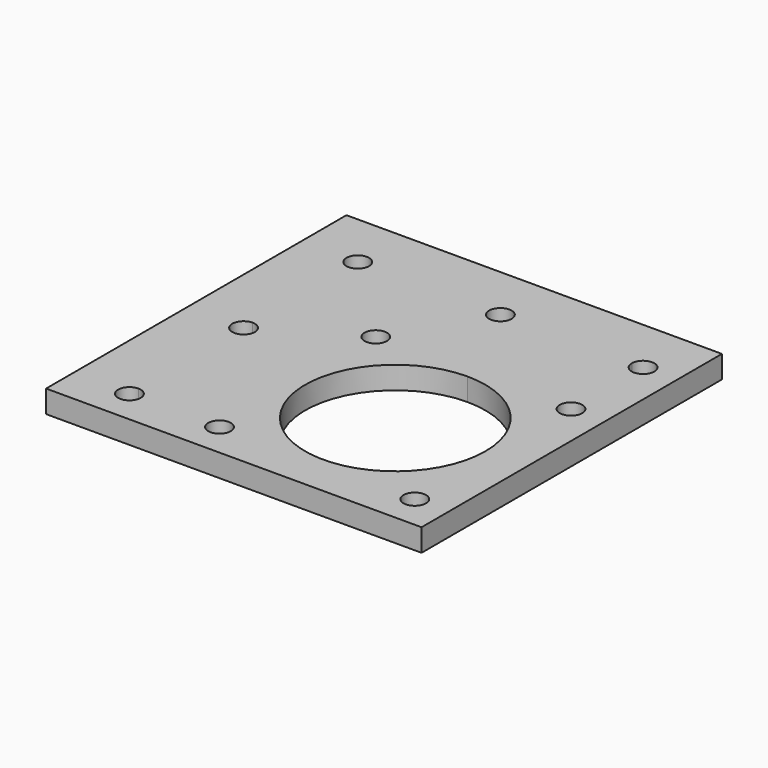
from build123d import *

# Parameters (mm, degrees)
F0_W     = 35
F0_H     = 35
F0_R     = 1.5
F1_DEPTH = 3
F3_DEPTH = 3
F5_DEPTH = 25


with BuildPart() as f1:
    # F0 (on Top) → F1 (new body)
    with BuildSketch(Plane.XY):
        Rectangle(F0_W, F0_H)
        with Locations((-13, -13)):
            Circle(F0_R, mode=Mode.SUBTRACT)
        with Locations((13, -13)):
            Circle(F0_R, mode=Mode.SUBTRACT)
        with Locations((-13, 13)):
            Circle(F0_R, mode=Mode.SUBTRACT)
        with BuildLine():
            ThreePointArc((0, 12), (8.485281, 8.485281), (12, 0))
            ThreePointArc((12, 0), (-8.485281, -8.485281), (0, 12))
        make_face(mode=Mode.SUBTRACT)
        with Locations((13, 13)):
            Circle(F0_R, mode=Mode.SUBTRACT)
    extrude(amount=F1_DEPTH)

    # F2 (on face) → F3 (join)
    with BuildSketch(Plane.XY.offset(3)):
        Polygon((17.5, 17.5), (17.5, 32.5), (-32.5, 32.5), (-32.5, -17.5), (-17.5, -17.5), (-17.5, 17.5), align=None)
    extrude(amount=-F3_DEPTH)

    # F4 (on face) → F5 (cut)
    with BuildSketch(Plane.XY.offset(3)):
        with BuildLine():
            ThreePointArc((13, 23.5), (14.06066, 23.93934), (14.5, 25))
            Line((14.5, 25), (13, 25))
            Line((13, 25), (13, 23.5))
        make_face()
        with BuildLine():
            Line((13, 25), (14.5, 25))
            ThreePointArc((14.5, 25), (13, 26.5), (11.5, 25))
            Line((11.5, 25), (13, 25))
        make_face()
        with BuildLine():
            ThreePointArc((-23.5, -13), (-23.93934, -11.93934), (-25, -11.5))
            Line((-25, -11.5), (-25, -13))
            Line((-25, -13), (-23.5, -13))
        make_face()
        with BuildLine():
            Line((-25, -13), (-25, -11.5))
            ThreePointArc((-25, -11.5), (-26.5, -13), (-25, -14.5))
            Line((-25, -14.5), (-25, -13))
        make_face()
        with BuildLine():
            ThreePointArc((-23.5, 6), (-23.93934, 7.06066), (-25, 7.5))
            Line((-25, 7.5), (-25, 4.5))
            ThreePointArc((-25, 4.5), (-23.93934, 4.93934), (-23.5, 6))
        make_face()
        with BuildLine():
            Line((-25, 4.5), (-25, 7.5))
            ThreePointArc((-25, 7.5), (-26.5, 6), (-25, 4.5))
        make_face()
        with BuildLine():
            ThreePointArc((-25, 23.5), (-23.93934, 23.93934), (-23.5, 25))
            Line((-23.5, 25), (-25, 25))
            Line((-25, 25), (-25, 23.5))
        make_face()
        with BuildLine():
            Line((-25, 25), (-23.5, 25))
            ThreePointArc((-23.5, 25), (-26.06066, 26.06066), (-25, 23.5))
            Line((-25, 23.5), (-25, 25))
        make_face()
        with BuildLine():
            ThreePointArc((-7.5, 25), (-6, 23.5), (-4.5, 25))
            Line((-4.5, 25), (-7.5, 25))
        make_face()
        with BuildLine():
            Line((-7.5, 25), (-4.5, 25))
            ThreePointArc((-4.5, 25), (-6, 26.5), (-7.5, 25))
        make_face()
        with BuildLine():
            Line((13, 23.5), (13, 25))
            Line((13, 25), (11.5, 25))
            ThreePointArc((11.5, 25), (11.93934, 23.93934), (13, 23.5))
        make_face()
        with BuildLine():
            Line((-23.5, -13), (-25, -13))
            Line((-25, -13), (-25, -14.5))
            ThreePointArc((-25, -14.5), (-23.93934, -14.06066), (-23.5, -13))
        make_face()
    extrude(amount=-F5_DEPTH, mode=Mode.SUBTRACT)


solid = f1.part
